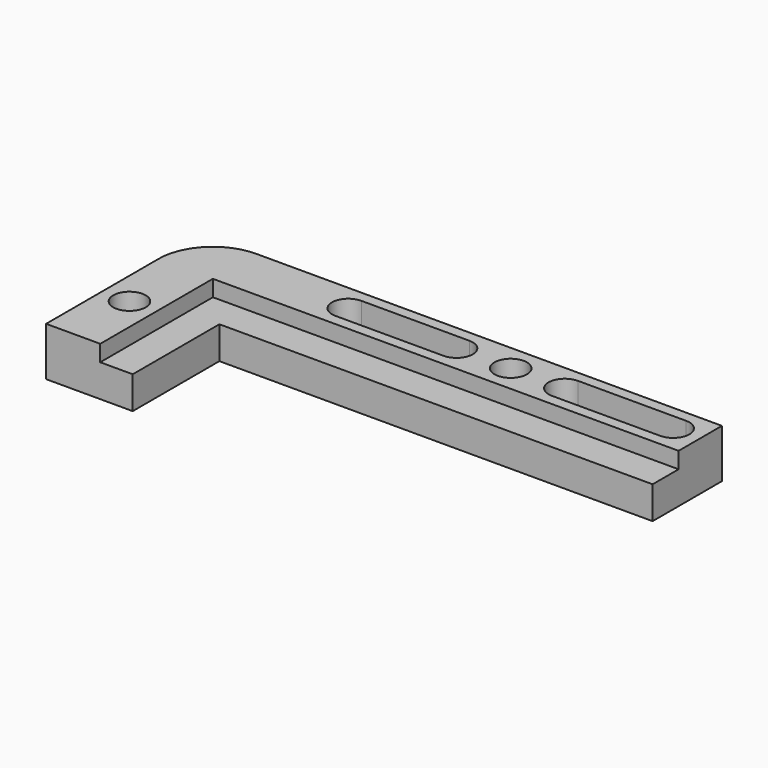
from build123d import *

# Parameters (mm, degrees)
F4_DEPTH = 4.5
F5_W     = 3
F5_H     = 1.5
F7_R     = 1.5
F8_DEPTH = 4.5
F9_R     = 5


with BuildPart() as f4:
    # F3 (on Top) → F4 (new body)
    with BuildSketch(Plane.XY):
        Polygon((0, -10), (0, 0), (40, 0), (40, 8), (-8, 8), (-8, -10), align=None)
    extrude(amount=F4_DEPTH)

    # F6: sweep along a path in F6_path
    with BuildLine(Plane(origin=(0, 0, 4.5), x_dir=(0, -1, 0), z_dir=(0, 0, -1))) as f6_path:
        Line((0, -40), (0, 0))
        Line((0, 0), (10, 0))
    # F5 (on face) → F6 (sweep, cut)
    with BuildSketch(Plane.YZ.offset(40)):
        with Locations((1.5, 3.75)):
            Rectangle(F5_W, F5_H)
    sweep(path=f6_path.line, transition=Transition.RIGHT, mode=Mode.SUBTRACT)

    # F7 (on face) → F8 (cut, through all)
    with BuildSketch(Plane.XY.offset(4.5)):
        with Locations((-5.5, -3.5)):
            Circle(F7_R)
        with BuildLine():
            Line((7.5, 3.9999998055), (17.5, 3.9999998055))
            ThreePointArc((17.5, 3.9999998055), (19, 5.4999998055), (17.5, 6.9999998055))
            Line((17.5, 6.9999998055), (7.5000000583, 7.0000001945))
            ThreePointArc((7.5000000583, 7.0000001945), (5.9999998055, 5.5000000292), (7.5, 3.9999998055))
        make_face()
        with Locations((22.5, 5.5)):
            Circle(F7_R)
        with BuildLine():
            Line((27.5, 4), (37.5, 4))
            ThreePointArc((37.5, 4), (39, 5.5), (37.5, 7))
            Line((37.5, 7), (27.5, 7))
            ThreePointArc((27.5, 7), (26, 5.5), (27.5, 4))
        make_face()
    extrude(amount=-F8_DEPTH, mode=Mode.SUBTRACT)

    # F9
    f9_edges = [f4.edges().sort_by_distance(p)[0] for p in [
        (-8, 8, 2.25),
    ]]
    fillet(f9_edges, radius=F9_R)


solid = f4.part
